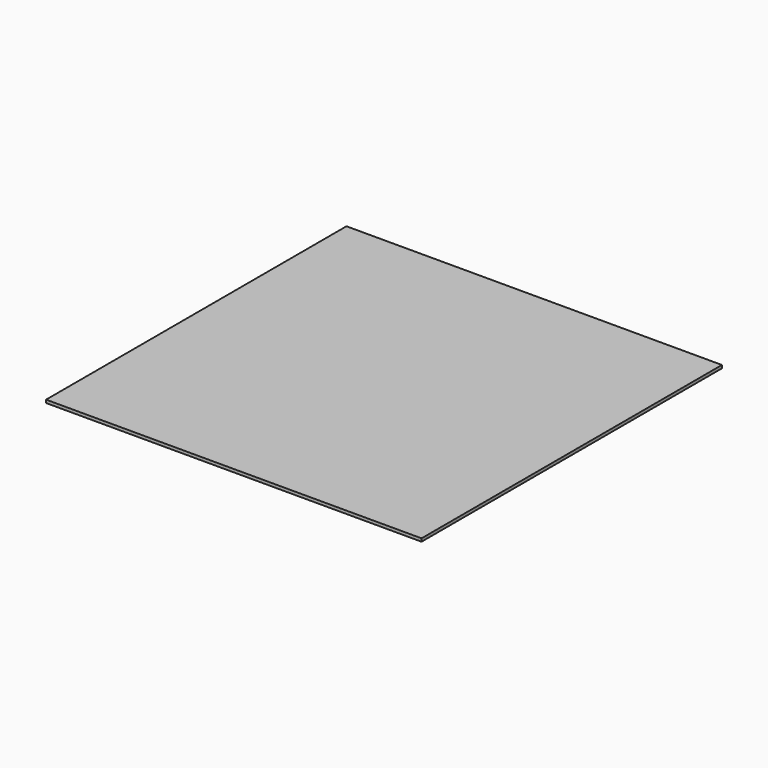
from build123d import *

# Parameters (mm, degrees)
BOX_W     = 500
BOX_H     = 500
BOX_DEPTH = 4


with BuildPart() as part:
    # Box → Box (new body)
    with BuildSketch(Plane.XY):
        with Locations((250, 250)):
            Rectangle(BOX_W, BOX_H)
    extrude(amount=BOX_DEPTH)


solid = part.part
